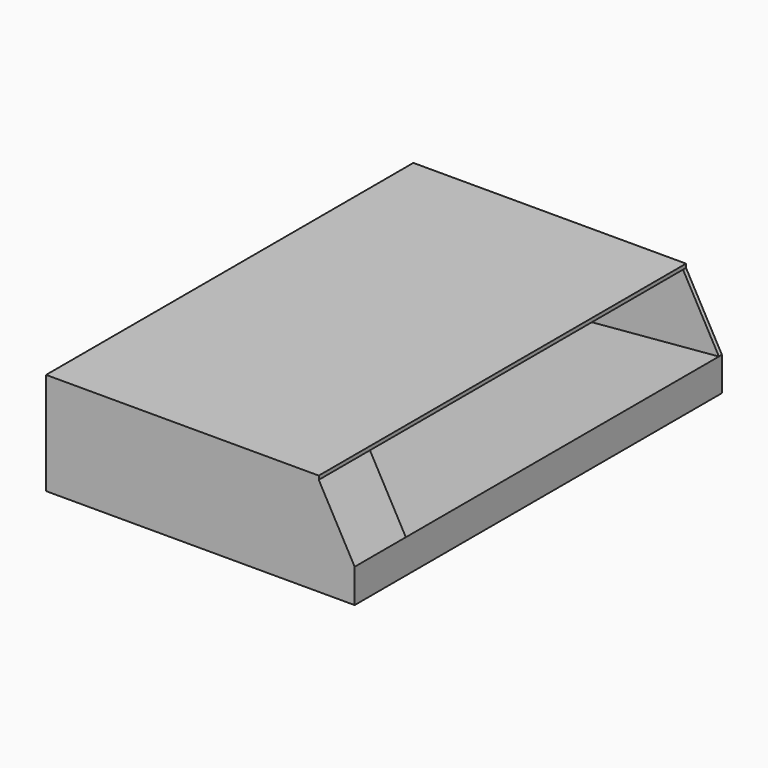
from build123d import *

# Parameters (mm, degrees)
F1_DEPTH = 3.175
F2_DEPTH = 330.2
F4_DEPTH = 53.975


with BuildPart() as f1:
    # F0 (on Front) → F1 (new body)
    with BuildSketch(Plane.XZ):
        Polygon((-29.6512916684, 86.36), (-29.6512916684, 0), (230.7157522443, 0), (230.7157522443, 28.4875586579), (-22.317701071, 6.35), (-27.298651769, 63.2825269959), (200.4314562148, 83.2063297881), (200.4314562148, 86.36), align=None)
        Polygon((-22.317701071, 6.35), (230.7157522443, 28.4875586579), (200.4314562148, 83.2063297881), (-27.298651769, 63.2825269959), align=None)
    extrude(amount=-F1_DEPTH)

    # F0 (on Front) → F2 (join)
    with BuildSketch(Plane.XZ):
        Polygon((-29.6512916684, 86.36), (-29.6512916684, 0), (230.7157522443, 0), (230.7157522443, 28.4875586579), (-22.317701071, 6.35), (-27.298651769, 63.2825269959), (200.4314562148, 83.2063297881), (200.4314562148, 86.36), align=None)
    extrude(amount=F2_DEPTH)

    # F3 (on face) → F4 (join)
    with BuildSketch(Plane.XZ.offset(330.2)):
        Polygon((-27.298651769, 63.2825269959), (200.4314562148, 83.2063297881), (200.4314562148, 86.36), (-29.6512916684, 86.36), (-29.6512916684, 0), (230.7157522443, 0), (230.7157522443, 28.4875586579), (-22.317701071, 6.35), align=None)
        Polygon((230.7157522443, 28.4875586579), (200.4314562148, 83.2063297881), (-27.298651769, 63.2825269959), (-22.317701071, 6.35), align=None)
    extrude(amount=F4_DEPTH)


solid = f1.part
